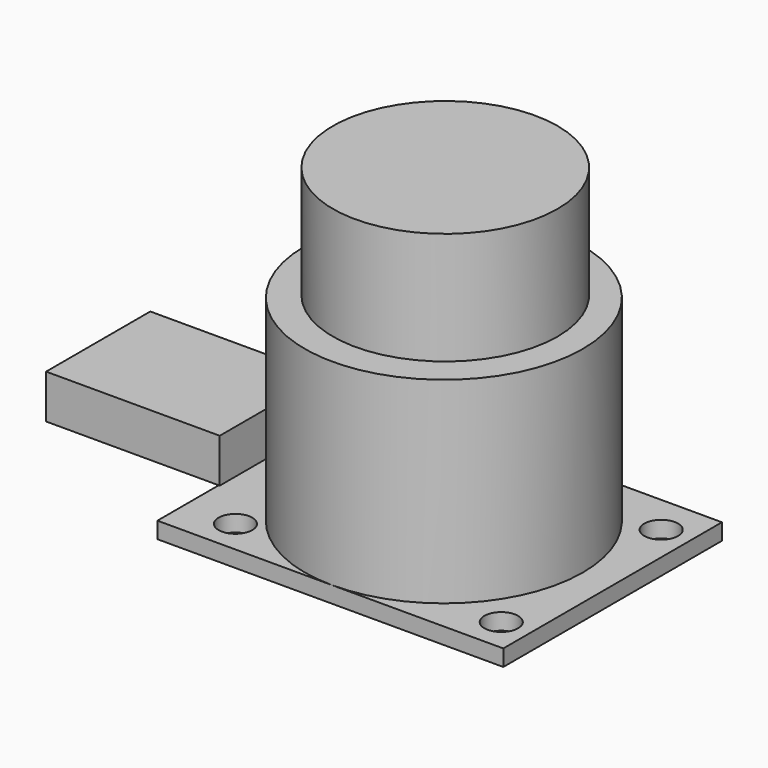
from build123d import *

# Parameters (mm, degrees)
SKETCH018_R      = 11
EXTRUDE016_DEPTH = 11
SKETCH015_W      = 33.86
SKETCH015_H      = 26.75
SKETCH015_R      = 1.65
EXTRUDE017_DEPTH = 1.6
SKETCH016_W      = 17
SKETCH016_H      = 12.75
EXTRUDE018_DEPTH = 4.3
SKETCH017_R      = 13.61
EXTRUDE015_DEPTH = 19.27


with BuildPart() as extrude_joystick_stick:
    # Sketch018 → Extrude016 (new body)
    with BuildSketch(Plane.XY):
        with Locations((16.975, 14)):
            Circle(SKETCH018_R)
    extrude(amount=EXTRUDE016_DEPTH)


with BuildPart() as extrude_joystick_stick_1:
    # Extrude016 placement: moved
    add(extrude_joystick_stick.part.moved(Location((0, 0, 20.87))))


with BuildPart() as extrude_joystick_base:
    # Sketch015 → Extrude017 (new body)
    with BuildSketch(Plane.XY):
        with Locations((16.93, 13.375)):
            Rectangle(SKETCH015_W, SKETCH015_H)
        with Locations((5, 22.88)):
            Circle(SKETCH015_R, mode=Mode.SUBTRACT)
        with Locations((31.01, 22.88)):
            Circle(SKETCH015_R, mode=Mode.SUBTRACT)
        with Locations((4.99, 3.31)):
            Circle(SKETCH015_R, mode=Mode.SUBTRACT)
        with Locations((31.01, 3.31)):
            Circle(SKETCH015_R, mode=Mode.SUBTRACT)
    extrude(amount=EXTRUDE017_DEPTH)


with BuildPart() as extrude_joystick_connector:
    # Sketch016 → Extrude018 (new body)
    with BuildSketch(Plane.XY):
        with Locations((-8.5, 13.875)):
            Rectangle(SKETCH016_W, SKETCH016_H)
    extrude(amount=EXTRUDE018_DEPTH)


with BuildPart() as extrude_joystick_connector_1:
    # Extrude018 placement: moved
    add(extrude_joystick_connector.part.moved(Location((0.1, 0, 1.6))))


with BuildPart() as fusion_joystick_connector:
    # Sketch017 → Extrude015 (new body)
    with BuildSketch(Plane.XY):
        with Locations((17.15, 13.61)):
            Circle(SKETCH017_R)
    extrude(amount=EXTRUDE015_DEPTH)


with BuildPart() as fusion_joystick_connector_1:
    # Extrude015 placement: moved
    add(fusion_joystick_connector.part.moved(Location((0, 0, 1.6))))

    # Fusion005: union Extrude_JoyStick_Stick, Extrude_JoyStick_base, Extrude_JoyStick_connector
    add(extrude_joystick_stick_1.part)
    add(extrude_joystick_base.part)
    add(extrude_joystick_connector_1.part)


with BuildPart() as fusion_joystick_connector_2:
    # Fusion005 placement: moved
    add(fusion_joystick_connector_1.part.moved(Location((53, 5, 5))))


solid = fusion_joystick_connector_2.part
